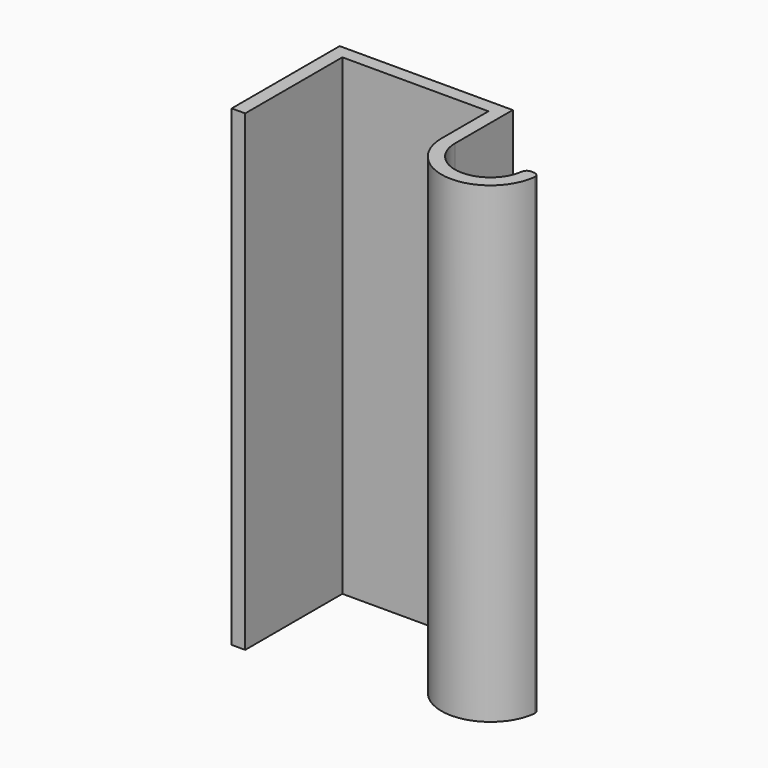
from build123d import *

# Parameters (mm, degrees)
F1_DEPTH = 177.8
F2_R     = 2


with BuildPart() as f1:
    # F0 (on Top) → F1 (new body)
    with BuildSketch(Plane.XY):
        with BuildLine():
            Line((-5.08, 0), (0, 0))
            Line((0, 0), (0, 45.72))
            Line((0, 45.72), (55, 45.72))
            Line((55, 45.72), (55, 23.612564))
            ThreePointArc((55, 23.612564), (73.429315, 5.183249), (91.858629, 23.612564))
            Line((91.858629, 23.612564), (86.778629, 23.612564))
            ThreePointArc((86.778629, 23.612564), (73.429315, 10.263249), (60.08, 23.612564))
            Line((60.08, 23.612564), (60.08, 50.8))
            Line((60.08, 50.8), (-5.08, 50.8))
            Line((-5.08, 50.8), (-5.08, 0))
        make_face()
    extrude(amount=F1_DEPTH)

    # F2
    f2_edges = [f1.edges().sort_by_distance(p)[0] for p in [
        (86.778629, 23.612564, 88.9),
        (91.858629, 23.612564, 88.9),
    ]]
    fillet(f2_edges, radius=F2_R)


solid = f1.part
